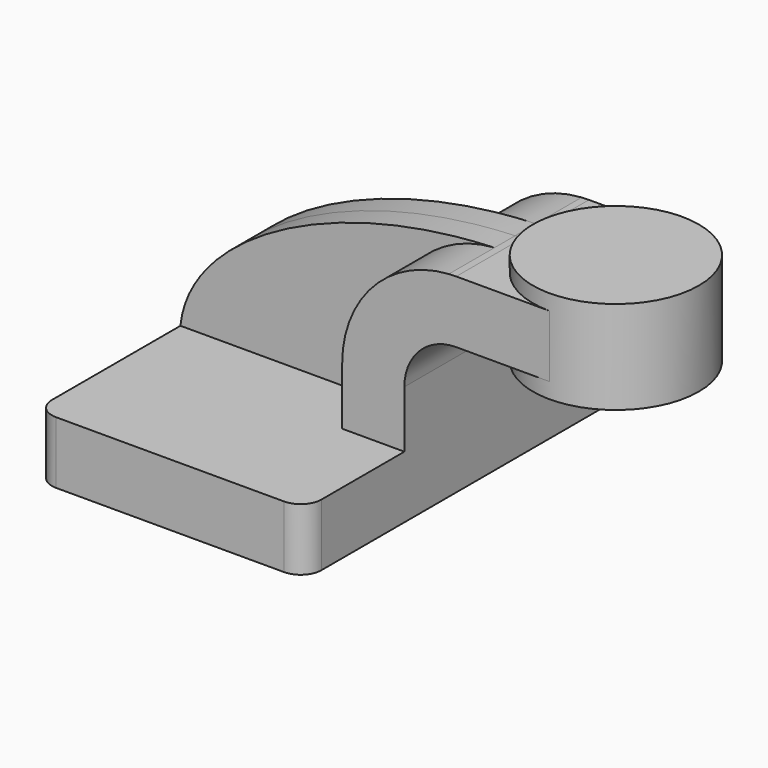
from build123d import *

# Parameters (mm, degrees)
F1_DEPTH = 63.5
F2_DEPTH = 25.4
F0_W     = 25.4
F0_H     = 19.05
F3_DEPTH = 25.4
F4_DEPTH = 7.9375
F6_R     = 6.35


with BuildPart() as f1:
    # F0 (on Front) → F1 (new body, symmetric)
    with BuildSketch(Plane.XZ):
        Polygon((-41.275, -9.525), (41.275, -9.525), (41.275, 9.525), (22.225, 9.525), (-41.275, 9.525), align=None)
    extrude(amount=F1_DEPTH, both=True)

    # F0 (on Front) → F2 (join, symmetric)
    with BuildSketch(Plane.XZ):
        with BuildLine():
            Line((22.225, 9.525), (41.275, 9.525))
            Line((41.275, 9.525), (41.275, 27.0002))
            ThreePointArc((41.275, 27.0002), (45.9246798487, 38.2255201513), (57.15, 42.8752))
            Line((57.15, 42.8752), (60.325, 42.8752))
            Line((60.325, 42.8752), (60.325, 61.9252))
            Line((60.325, 61.9252), (57.15, 61.9252))
            add(Edge.make_bspline(
                [(54.8989749886, 61.8525817177), (55.6472993307, 61.8814662978), (56.3976709314, 61.9056929595), (57.15, 61.9252)],
                knots=[109.9134052924, 109.9134052924, 109.9134052924, 109.9134052924, 111.5045361635, 111.5045361635, 111.5045361635, 111.5045361635], degree=3))
            ThreePointArc((54.8989749886, 61.8525817177), (31.6708646779, 50.8867922274), (22.225, 27.0002))
            Line((22.225, 27.0002), (22.225, 9.525))
        make_face()
    extrude(amount=F2_DEPTH, both=True)

    # F0 (on Front) → F3 (join, symmetric)
    with BuildSketch(Plane.XZ):
        with Locations((73.025, 52.4002)):
            Rectangle(F0_W, F0_H)
    extrude(amount=F3_DEPTH, both=True)

    # F0 (on Front) → F4 (join, symmetric)
    with BuildSketch(Plane.XZ):
        with BuildLine():
            add(Edge.make_bspline(
                [(-41.275, 9.525), (-38.7184419076, 35.6349297133), (3.2056302131, 59.8572696967), (54.8989749886, 61.8525817177)],
                knots=[0, 0, 0, 0, 109.9134052924, 109.9134052924, 109.9134052924, 109.9134052924], degree=3))
            Line((-41.275, 9.525), (22.225, 9.525))
            Line((22.225, 9.525), (22.225, 27.0002))
            ThreePointArc((22.225, 27.0002), (31.6708646779, 50.8867922274), (54.8989749886, 61.8525817177))
        make_face()
    extrude(amount=F4_DEPTH, both=True)

    # F0 (on Front) → F5 (revolve)
    with BuildSketch(Plane.XZ):
        Polygon((85.725, 61.9252), (85.725, 42.8752), (85.725, 38.1), (111.125, 38.1), (111.125, 66.675), (85.725, 66.675), align=None)
    revolve(axis=Axis((85.725, 0, 52.3875), (0, 0, 1)))

    # F6
    f6_edges = [f1.edges().sort_by_distance(p)[0] for p in [
        (-41.275, -63.5, 0),
        (41.275, -63.5, 0),
        (41.275, 63.5, 0),
        (-41.275, 63.5, 0),
    ]]
    fillet(f6_edges, radius=F6_R)


solid = f1.part
